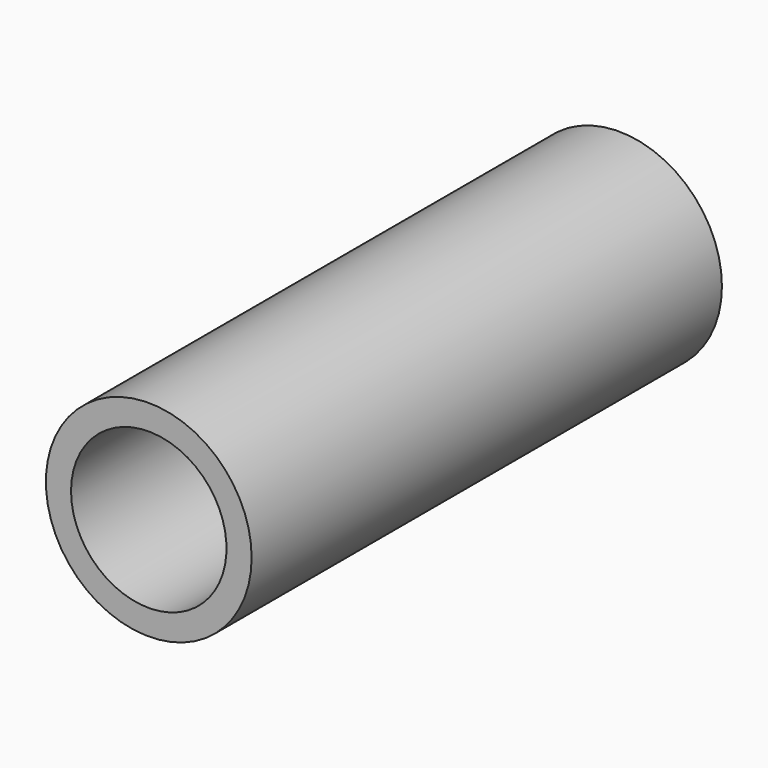
from build123d import *

# Parameters (mm, degrees)
F0_R     = 40.005
F1_DEPTH = 228.6
F3_D     = 60.452
F3_DEPTH = 203.2
F3_TIP   = 18.1616130707
F5_D     = 17.78


with BuildPart() as f1:
    # F0 (on Front) → F1 (new body)
    with BuildSketch(Plane.XZ):
        Circle(F0_R)
    extrude(amount=F1_DEPTH)

    # F3
    with Locations(Plane.XZ.offset(228.6)):
        with Locations((0, 0)):
            Hole(F3_D / 2, depth=F3_DEPTH)
            with Locations((0, 0, -(F3_DEPTH + F3_TIP / 2))):  # 118° drill point
                Cone(0, F3_D / 2, F3_TIP, mode=Mode.SUBTRACT)

    # F5 (through all)
    with Locations(Plane(origin=(0, 0, 0), x_dir=(-1, 0, 0), z_dir=(0, 1, 0))):
        with Locations((0, 0)):
            Hole(F5_D / 2)


solid = f1.part
